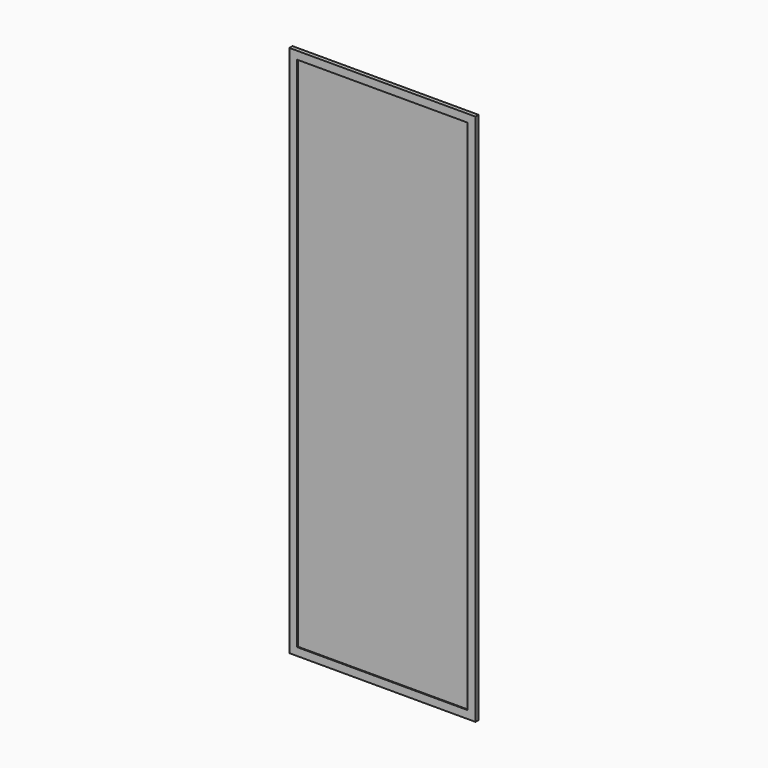
from build123d import *

# Parameters (mm, degrees)
F0_W     = 603.25
F0_H     = 1727.2
F0_W_2   = 552.45
F0_H_2   = 1676.4
F1_DEPTH = 6.35
F2_DEPTH = 3.175


with BuildPart() as f1:
    # F0 (on Front) → F1 (new body, symmetric)
    with BuildSketch(Plane.XZ):
        Rectangle(F0_W, F0_H)
        Rectangle(F0_W_2, F0_H_2, mode=Mode.SUBTRACT)
    extrude(amount=F1_DEPTH, both=True)

    # F0 (on Front) → F2 (join, symmetric)
    with BuildSketch(Plane.XZ):
        Rectangle(F0_W_2, F0_H_2)
    extrude(amount=F2_DEPTH, both=True)


solid = f1.part
